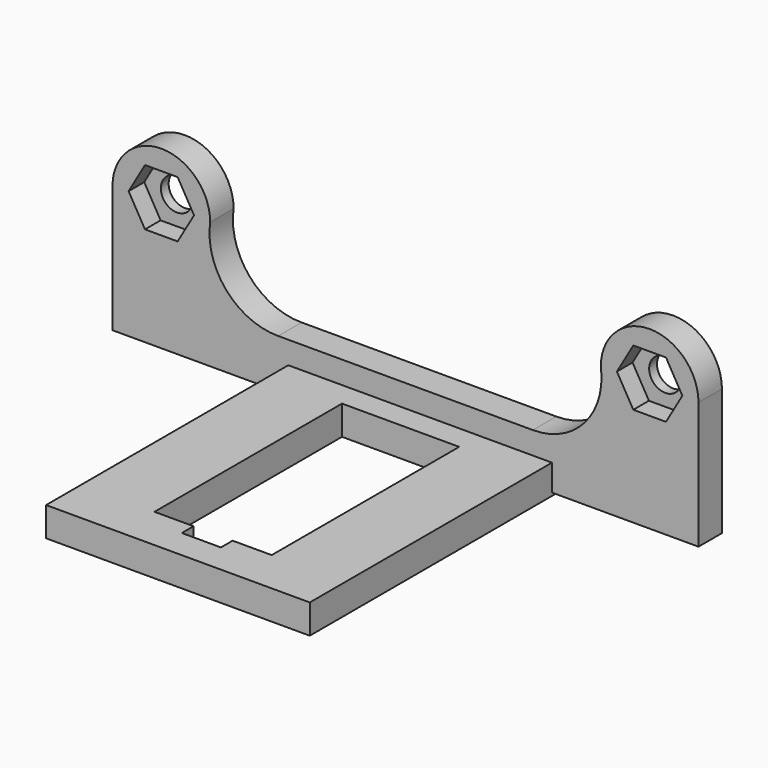
from build123d import *

# Parameters (mm, degrees)
CYLINDER004_R             = 1.65
CYLINDER004_DEPTH         = 15
CYLINDER004_ROLL_ANGLE    = -90
PAD004_DEPTH              = 2.5
FUSION006_PLACEMENT_ANGLE = 90
CYLINDER005_R             = 1.65
CYLINDER005_DEPTH         = 15
CYLINDER005_ROLL_ANGLE    = -90
PAD002_DEPTH              = 2.5
FUSION005_PLACEMENT_ANGLE = 90
PAD003_DEPTH              = 3
BOX009_W                  = 4
BOX009_H                  = 4
BOX009_DEPTH              = 10
BOX011_W                  = 24
BOX011_H                  = 12
BOX011_DEPTH              = 10
BOX010_W                  = 34
BOX010_H                  = 27
BOX010_DEPTH              = 3
FUSION007_PLACEMENT_ANGLE = -90


with BuildPart() as cylinder004:
    # Cylinder004 → Cylinder004 (new body)
    with BuildSketch(Plane.XY):
        Circle(CYLINDER004_R)
    extrude(amount=CYLINDER004_DEPTH)


with BuildPart() as cylinder004_1:
    # Cylinder004 roll: moved
    add(cylinder004.part.rotate(Axis((0, 0, 0), (1, 0, 0)), CYLINDER004_ROLL_ANGLE))


with BuildPart() as cylinder004_2:
    # Cylinder004 placement: moved
    add(cylinder004_1.part)


with BuildPart() as obj1:
    # Sketch → Pad004 (new body)
    with BuildSketch(Plane.XZ):
        Polygon((-3.348631, 0), (-1.674316, 2.9), (1.674316, 2.9), (3.348631, 0), (1.674316, -2.9), (-1.674316, -2.9), align=None)
    extrude(amount=PAD004_DEPTH)

    # Fusion006: union Cylinder004
    add(cylinder004_2.part)


with BuildPart() as obj1_1:
    # Fusion006 placement: moved
    add(obj1.part.moved(Location((1, -25, 28))).rotate(Axis((1, -25, 28), (0, 0, 1)), FUSION006_PLACEMENT_ANGLE))


with BuildPart() as cylinder005:
    # Cylinder005 → Cylinder005 (new body)
    with BuildSketch(Plane.XY):
        Circle(CYLINDER005_R)
    extrude(amount=CYLINDER005_DEPTH)


with BuildPart() as cylinder005_1:
    # Cylinder005 roll: moved
    add(cylinder005.part.rotate(Axis((0, 0, 0), (1, 0, 0)), CYLINDER005_ROLL_ANGLE))


with BuildPart() as cylinder005_2:
    # Cylinder005 placement: moved
    add(cylinder005_1.part)


with BuildPart() as obj2:
    # Sketch → Pad002 (new body)
    with BuildSketch(Plane.XZ):
        Polygon((-3.348631, 0), (-1.674316, 2.9), (1.674316, 2.9), (3.348631, 0), (1.674316, -2.9), (-1.674316, -2.9), align=None)
    extrude(amount=PAD002_DEPTH)

    # Fusion005: union Cylinder005
    add(cylinder005_2.part)


with BuildPart() as obj2_1:
    # Fusion005 placement: moved
    add(obj2.part.moved(Location((1, 25, 28))).rotate(Axis((1, 25, 28), (0, 0, 1)), FUSION005_PLACEMENT_ANGLE))


with BuildPart() as cut011:
    # Sketch001 → Pad003 (new body)
    with BuildSketch(Plane.YZ):
        with BuildLine():
            Line((-30, 14.925301), (30, 14.925301))
            Line((30, 27.925301), (30, 14.925301))
            ThreePointArc((30, 27.925301), (25, 32.925301), (20, 27.925301))
            ThreePointArc((13.035099, 19.925301), (18.35131, 22.328806), (20, 27.925301))
            Line((-13.035099, 19.925301), (13.035099, 19.925301))
            ThreePointArc((-20, 27.925301), (-18.35131, 22.328806), (-13.035099, 19.925301))
            ThreePointArc((-20, 27.925301), (-25, 32.925301), (-30, 27.925301))
            Line((-30, 27.925301), (-30, 14.925301))
        make_face()
    extrude(amount=PAD003_DEPTH)

    # Cut010: cut obj2
    add(obj2_1.part, mode=Mode.SUBTRACT)

    # Cut011: cut obj1
    add(obj1_1.part, mode=Mode.SUBTRACT)


with BuildPart() as cut011_1:
    # Cut011 placement: moved
    add(cut011.part.moved(Location((-17, -1.5, 0.374699))))


with BuildPart() as cubo009:
    # Box009 → Box009 (new body)
    with BuildSketch(Plane(origin=(10, -2, 10), x_dir=(1, 0, 0), z_dir=(0, 0, 1))):
        with Locations((2, 2)):
            Rectangle(BOX009_W, BOX009_H)
    extrude(amount=BOX009_DEPTH)


with BuildPart() as cubo011:
    # Box011 → Box011 (new body)
    with BuildSketch(Plane(origin=(-11.5, -6, 11), x_dir=(1, 0, 0), z_dir=(0, 0, 1))):
        with Locations((12, 6)):
            Rectangle(BOX011_W, BOX011_H)
    extrude(amount=BOX011_DEPTH)


with BuildPart() as obj3:
    # Box010 → Box010 (new body)
    with BuildSketch(Plane(origin=(-17, -13.5, 15), x_dir=(1, 0, 0), z_dir=(0, 0, 1))):
        with Locations((17, 13.5)):
            Rectangle(BOX010_W, BOX010_H)
    extrude(amount=BOX010_DEPTH)

    # Cut012: cut Cubo011
    add(cubo011.part, mode=Mode.SUBTRACT)

    # Cut009: cut Cubo009
    add(cubo009.part, mode=Mode.SUBTRACT)

    # Fusion007: union Cut011
    add(cut011_1.part)


with BuildPart() as obj3_1:
    # Fusion007 placement: moved
    add(obj3.part.moved(Location((0, 57, 0))).rotate(Axis((0, 57, 0), (0, 0, 1)), FUSION007_PLACEMENT_ANGLE))


solid = obj3_1.part
